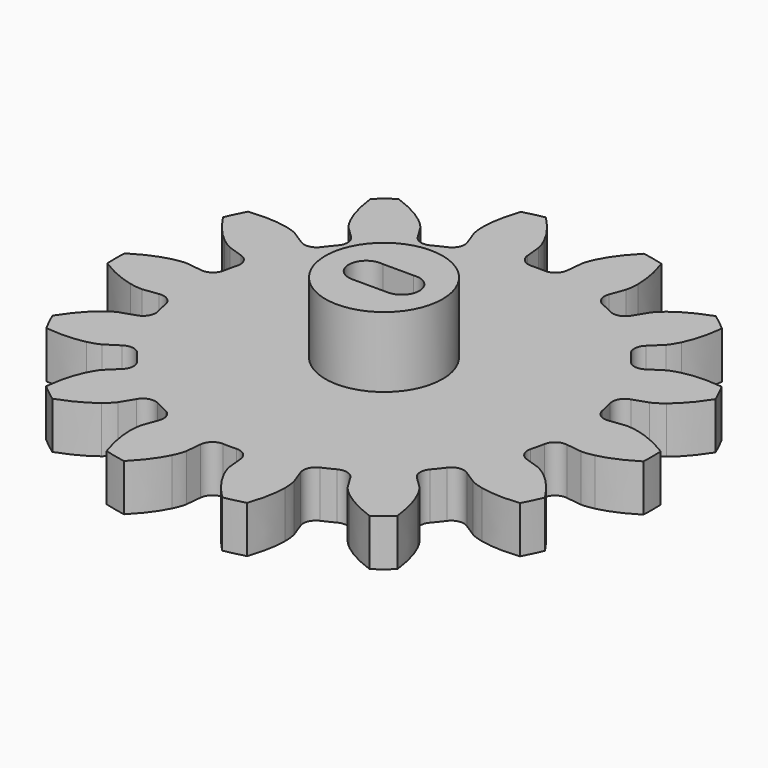
from build123d import *

# Parameters (mm, degrees)
EXTRUDE_DEPTH   = 4
SKETCH_R        = 5
PAD_DEPTH       = 10
SKETCH002_R     = 1.5
POCKET001_DEPTH = 6
SKETCH003_R     = 1.5
POCKET002_DEPTH = 6
SKETCH004_W     = 3.402396
SKETCH004_H     = 2.986549
POCKET_DEPTH    = 6


with BuildPart() as part:
    # InvoluteGear → Extrude (new body)
    with BuildSketch(Plane.XY):
        with BuildLine():
            Line((17.390373, -2.222369), (18.707653, -2.38844))
            add(Edge.make_bspline(
                [(18.707653, -2.38844), (18.829877, -2.395407), (19.197152, -2.399395), (19.812697, -2.261069)],
                knots=[0, 0, 0, 0, 1, 1, 1, 1], degree=3))
            add(Edge.make_bspline(
                [(19.812697, -2.261069), (20.546714, -2.092527), (21.59576, -1.723009), (22.865026, -0.922007)],
                knots=[0, 0, 0, 0, 1, 1, 1, 1], degree=3))
            ThreePointArc((22.865026, -0.922007), (22.881806, 0.000784), (22.861355, 0.923502))
            add(Edge.make_bspline(
                [(22.861355, 0.923502), (21.59576, 1.723009), (20.546714, 2.092527), (19.812697, 2.261069)],
                knots=[0, 0, 0, 0, 1, 1, 1, 1], degree=3))
            add(Edge.make_bspline(
                [(19.812697, 2.261069), (19.197152, 2.399395), (18.829877, 2.395407), (18.707653, 2.38844)],
                knots=[0, 0, 0, 0, 1, 1, 1, 1], degree=3))
            Line((18.707653, 2.38844), (17.390373, 2.222369))
            ThreePointArc((17.390373, 2.222369), (16.595671, 2.405517), (16.152111, 3.089878))
            ThreePointArc((16.152111, 3.089878), (16.03269, 3.659357), (15.893197, 4.224254))
            ThreePointArc((15.893197, 4.224254), (15.995898, 5.033296), (16.632435, 5.543115))
            Line((16.632435, 5.543115), (17.891318, 5.965036))
            add(Edge.make_bspline(
                [(17.891318, 5.965036), (18.004461, 6.011791), (18.337094, 6.167552), (18.831664, 6.559255)],
                knots=[0, 0, 0, 0, 1, 1, 1, 1], degree=3))
            add(Edge.make_bspline(
                [(18.831664, 6.559255), (19.419863, 7.029584), (20.204693, 7.817671), (21.000721, 9.090063)],
                knots=[0, 0, 0, 0, 1, 1, 1, 1], degree=3))
            ThreePointArc((21.000721, 9.090063), (20.615454, 9.92875), (20.196677, 10.751216))
            add(Edge.make_bspline(
                [(20.196677, 10.751216), (18.709521, 10.922427), (17.604037, 10.800187), (16.869582, 10.633559)],
                knots=[0, 0, 0, 0, 1, 1, 1, 1], degree=3))
            add(Edge.make_bspline(
                [(16.869582, 10.633559), (16.254978, 10.491112), (15.925805, 10.328164), (15.818708, 10.268857)],
                knots=[0, 0, 0, 0, 1, 1, 1, 1], degree=3))
            Line((15.818708, 10.268857), (14.703935, 9.547685))
            ThreePointArc((14.703935, 9.547685), (13.908468, 9.367888), (13.211901, 9.792022))
            ThreePointArc((13.211901, 9.792022), (12.857219, 10.25329), (12.48644, 10.701721))
            ThreePointArc((12.48644, 10.701721), (12.227941, 11.475203), (12.580238, 12.210717))
            Line((12.580238, 12.210717), (13.531389, 13.137064))
            add(Edge.make_bspline(
                [(13.531389, 13.137064), (13.613041, 13.228279), (13.84515, 13.512939), (14.120789, 14.080437)],
                knots=[0, 0, 0, 0, 1, 1, 1, 1], degree=3))
            add(Edge.make_bspline(
                [(14.120789, 14.080437), (14.44667, 14.759399), (14.811839, 15.809966), (14.976965, 17.301735)],
                knots=[0, 0, 0, 0, 1, 1, 1, 1], degree=3))
            ThreePointArc((14.976965, 17.301735), (14.265959, 17.890205), (13.531799, 18.449521))
            add(Edge.make_bspline(
                [(13.531799, 18.449521), (12.117633, 17.958524), (11.174663, 17.368737), (10.58524, 16.899943)],
                knots=[0, 0, 0, 0, 1, 1, 1, 1], degree=3))
            add(Edge.make_bspline(
                [(10.58524, 16.899943), (10.093306, 16.504935), (9.867432, 16.215303), (9.796673, 16.1154)],
                knots=[0, 0, 0, 0, 1, 1, 1, 1], degree=3))
            Line((9.796673, 16.1154), (9.105203, 14.981966))
            ThreePointArc((9.105203, 14.981966), (8.466522, 14.474834), (7.654912, 14.554736))
            ThreePointArc((7.654912, 14.554736), (7.135218, 14.816433), (6.606591, 15.059581))
            ThreePointArc((6.606591, 15.059581), (6.03809, 15.644305), (6.036372, 16.459837))
            Line((6.036372, 16.459837), (6.491402, 17.707135))
            add(Edge.make_bspline(
                [(6.491402, 17.707135), (6.525391, 17.824745), (6.611005, 18.181923), (6.613119, 18.812816)],
                knots=[0, 0, 0, 0, 1, 1, 1, 1], degree=3))
            add(Edge.make_bspline(
                [(6.613119, 18.812816), (6.612137, 19.565934), (6.485319, 20.670903), (5.986838, 22.086586)],
                knots=[0, 0, 0, 0, 1, 1, 1, 1], degree=3))
            ThreePointArc((5.986838, 22.086586), (5.090916, 22.308285), (4.186782, 22.493671))
            add(Edge.make_bspline(
                [(4.186782, 22.493671), (3.125699, 21.437715), (2.532011, 20.497196), (2.204361, 19.819086)],
                knots=[0, 0, 0, 0, 1, 1, 1, 1], degree=3))
            add(Edge.make_bspline(
                [(2.204361, 19.819086), (1.932531, 19.249754), (1.854693, 18.890801), (1.834287, 18.770091)],
                knots=[0, 0, 0, 0, 1, 1, 1, 1], degree=3))
            Line((1.834287, 18.770091), (1.703073, 17.448884))
            ThreePointArc((1.703073, 17.448884), (1.347678, 16.714861), (0.581774, 16.434706))
            ThreePointArc((0.581774, 16.434706), (0, 16.445), (-0.581774, 16.434706))
            ThreePointArc((-0.581774, 16.434706), (-1.347678, 16.714861), (-1.703073, 17.448884))
            Line((-1.703073, 17.448884), (-1.834287, 18.770091))
            add(Edge.make_bspline(
                [(-1.834287, 18.770091), (-1.854693, 18.890801), (-1.932531, 19.249754), (-2.204361, 19.819086)],
                knots=[0, 0, 0, 0, 1, 1, 1, 1], degree=3))
            add(Edge.make_bspline(
                [(-2.204361, 19.819086), (-2.532011, 20.497196), (-3.125699, 21.437715), (-4.189056, 22.496918)],
                knots=[0, 0, 0, 0, 1, 1, 1, 1], degree=3))
            ThreePointArc((-4.189056, 22.496918), (-5.092445, 22.307936), (-5.987478, 22.082674))
            add(Edge.make_bspline(
                [(-5.987478, 22.082674), (-6.485319, 20.670903), (-6.612137, 19.565934), (-6.613119, 18.812816)],
                knots=[0, 0, 0, 0, 1, 1, 1, 1], degree=3))
            add(Edge.make_bspline(
                [(-6.613119, 18.812816), (-6.611005, 18.181923), (-6.525391, 17.824745), (-6.491402, 17.707135)],
                knots=[0, 0, 0, 0, 1, 1, 1, 1], degree=3))
            Line((-6.491402, 17.707135), (-6.036372, 16.459837))
            ThreePointArc((-6.036372, 16.459837), (-6.03809, 15.644305), (-6.606591, 15.059581))
            ThreePointArc((-6.606591, 15.059581), (-7.135218, 14.816433), (-7.654912, 14.554736))
            ThreePointArc((-7.654912, 14.554736), (-8.466522, 14.474834), (-9.105203, 14.981966))
            Line((-9.105203, 14.981966), (-9.796673, 16.1154))
            add(Edge.make_bspline(
                [(-9.796673, 16.1154), (-9.867432, 16.215303), (-10.093306, 16.504935), (-10.58524, 16.899943)],
                knots=[0, 0, 0, 0, 1, 1, 1, 1], degree=3))
            add(Edge.make_bspline(
                [(-10.58524, 16.899943), (-11.174663, 17.368737), (-12.117633, 17.958524), (-13.535256, 18.451459)],
                knots=[0, 0, 0, 0, 1, 1, 1, 1], degree=3))
            ThreePointArc((-13.535256, 18.451459), (-14.267186, 17.889227), (-14.975844, 17.297933))
            add(Edge.make_bspline(
                [(-14.975844, 17.297933), (-14.811839, 15.809966), (-14.44667, 14.759399), (-14.120789, 14.080437)],
                knots=[0, 0, 0, 0, 1, 1, 1, 1], degree=3))
            add(Edge.make_bspline(
                [(-14.120789, 14.080437), (-13.84515, 13.512939), (-13.613041, 13.228279), (-13.531389, 13.137064)],
                knots=[0, 0, 0, 0, 1, 1, 1, 1], degree=3))
            Line((-13.531389, 13.137064), (-12.580238, 12.210717))
            ThreePointArc((-12.580238, 12.210717), (-12.227941, 11.475203), (-12.48644, 10.701721))
            ThreePointArc((-12.48644, 10.701721), (-12.857219, 10.25329), (-13.211901, 9.792022))
            ThreePointArc((-13.211901, 9.792022), (-13.908468, 9.367888), (-14.703935, 9.547685))
            Line((-14.703935, 9.547685), (-15.818708, 10.268857))
            add(Edge.make_bspline(
                [(-15.818708, 10.268857), (-15.925805, 10.328164), (-16.254978, 10.491112), (-16.869582, 10.633559)],
                knots=[0, 0, 0, 0, 1, 1, 1, 1], degree=3))
            add(Edge.make_bspline(
                [(-16.869582, 10.633559), (-17.604037, 10.800187), (-18.709521, 10.922427), (-20.200633, 10.751463)],
                knots=[0, 0, 0, 0, 1, 1, 1, 1], degree=3))
            ThreePointArc((-20.200633, 10.751463), (-20.616135, 9.927337), (-20.998061, 9.087124))
            add(Edge.make_bspline(
                [(-20.998061, 9.087124), (-20.204693, 7.817671), (-19.419863, 7.029584), (-18.831664, 6.559255)],
                knots=[0, 0, 0, 0, 1, 1, 1, 1], degree=3))
            add(Edge.make_bspline(
                [(-18.831664, 6.559255), (-18.337094, 6.167552), (-18.004461, 6.011791), (-17.891318, 5.965036)],
                knots=[0, 0, 0, 0, 1, 1, 1, 1], degree=3))
            Line((-17.891318, 5.965036), (-16.632435, 5.543115))
            ThreePointArc((-16.632435, 5.543115), (-15.995898, 5.033296), (-15.893197, 4.224254))
            ThreePointArc((-15.893197, 4.224254), (-16.03269, 3.659357), (-16.152111, 3.089878))
            ThreePointArc((-16.152111, 3.089878), (-16.595671, 2.405517), (-17.390373, 2.222369))
            Line((-17.390373, 2.222369), (-18.707653, 2.38844))
            add(Edge.make_bspline(
                [(-18.707653, 2.38844), (-18.829877, 2.395407), (-19.197152, 2.399395), (-19.812697, 2.261069)],
                knots=[0, 0, 0, 0, 1, 1, 1, 1], degree=3))
            add(Edge.make_bspline(
                [(-19.812697, 2.261069), (-20.546714, 2.092527), (-21.59576, 1.723009), (-22.865026, 0.922007)],
                knots=[0, 0, 0, 0, 1, 1, 1, 1], degree=3))
            ThreePointArc((-22.865026, 0.922007), (-22.881806, -0.000784), (-22.861355, -0.923502))
            add(Edge.make_bspline(
                [(-22.861355, -0.923502), (-21.59576, -1.723009), (-20.546714, -2.092527), (-19.812697, -2.261069)],
                knots=[0, 0, 0, 0, 1, 1, 1, 1], degree=3))
            add(Edge.make_bspline(
                [(-19.812697, -2.261069), (-19.197152, -2.399395), (-18.829877, -2.395407), (-18.707653, -2.38844)],
                knots=[0, 0, 0, 0, 1, 1, 1, 1], degree=3))
            Line((-18.707653, -2.38844), (-17.390373, -2.222369))
            ThreePointArc((-17.390373, -2.222369), (-16.595671, -2.405517), (-16.152111, -3.089878))
            ThreePointArc((-16.152111, -3.089878), (-16.03269, -3.659357), (-15.893197, -4.224254))
            ThreePointArc((-15.893197, -4.224254), (-15.995898, -5.033296), (-16.632435, -5.543115))
            Line((-16.632435, -5.543115), (-17.891318, -5.965036))
            add(Edge.make_bspline(
                [(-17.891318, -5.965036), (-18.004461, -6.011791), (-18.337094, -6.167552), (-18.831664, -6.559255)],
                knots=[0, 0, 0, 0, 1, 1, 1, 1], degree=3))
            add(Edge.make_bspline(
                [(-18.831664, -6.559255), (-19.419863, -7.029584), (-20.204693, -7.817671), (-21.000721, -9.090063)],
                knots=[0, 0, 0, 0, 1, 1, 1, 1], degree=3))
            ThreePointArc((-21.000721, -9.090063), (-20.615454, -9.92875), (-20.196677, -10.751216))
            add(Edge.make_bspline(
                [(-20.196677, -10.751216), (-18.709521, -10.922427), (-17.604037, -10.800187), (-16.869582, -10.633559)],
                knots=[0, 0, 0, 0, 1, 1, 1, 1], degree=3))
            add(Edge.make_bspline(
                [(-16.869582, -10.633559), (-16.254978, -10.491112), (-15.925805, -10.328164), (-15.818708, -10.268857)],
                knots=[0, 0, 0, 0, 1, 1, 1, 1], degree=3))
            Line((-15.818708, -10.268857), (-14.703935, -9.547685))
            ThreePointArc((-14.703935, -9.547685), (-13.908468, -9.367888), (-13.211901, -9.792022))
            ThreePointArc((-13.211901, -9.792022), (-12.857219, -10.25329), (-12.48644, -10.701721))
            ThreePointArc((-12.48644, -10.701721), (-12.227941, -11.475203), (-12.580238, -12.210717))
            Line((-12.580238, -12.210717), (-13.531389, -13.137064))
            add(Edge.make_bspline(
                [(-13.531389, -13.137064), (-13.613041, -13.228279), (-13.84515, -13.512939), (-14.120789, -14.080437)],
                knots=[0, 0, 0, 0, 1, 1, 1, 1], degree=3))
            add(Edge.make_bspline(
                [(-14.120789, -14.080437), (-14.44667, -14.759399), (-14.811839, -15.809966), (-14.976965, -17.301735)],
                knots=[0, 0, 0, 0, 1, 1, 1, 1], degree=3))
            ThreePointArc((-14.976965, -17.301735), (-14.265959, -17.890205), (-13.531799, -18.449521))
            add(Edge.make_bspline(
                [(-13.531799, -18.449521), (-12.117633, -17.958524), (-11.174663, -17.368737), (-10.58524, -16.899943)],
                knots=[0, 0, 0, 0, 1, 1, 1, 1], degree=3))
            add(Edge.make_bspline(
                [(-10.58524, -16.899943), (-10.093306, -16.504935), (-9.867432, -16.215303), (-9.796673, -16.1154)],
                knots=[0, 0, 0, 0, 1, 1, 1, 1], degree=3))
            Line((-9.796673, -16.1154), (-9.105203, -14.981966))
            ThreePointArc((-9.105203, -14.981966), (-8.466522, -14.474834), (-7.654912, -14.554736))
            ThreePointArc((-7.654912, -14.554736), (-7.135218, -14.816433), (-6.606591, -15.059581))
            ThreePointArc((-6.606591, -15.059581), (-6.03809, -15.644305), (-6.036372, -16.459837))
            Line((-6.036372, -16.459837), (-6.491402, -17.707135))
            add(Edge.make_bspline(
                [(-6.491402, -17.707135), (-6.525391, -17.824745), (-6.611005, -18.181923), (-6.613119, -18.812816)],
                knots=[0, 0, 0, 0, 1, 1, 1, 1], degree=3))
            add(Edge.make_bspline(
                [(-6.613119, -18.812816), (-6.612137, -19.565934), (-6.485319, -20.670903), (-5.986838, -22.086586)],
                knots=[0, 0, 0, 0, 1, 1, 1, 1], degree=3))
            ThreePointArc((-5.986838, -22.086586), (-5.090916, -22.308285), (-4.186782, -22.493671))
            add(Edge.make_bspline(
                [(-4.186782, -22.493671), (-3.125699, -21.437715), (-2.532011, -20.497196), (-2.204361, -19.819086)],
                knots=[0, 0, 0, 0, 1, 1, 1, 1], degree=3))
            add(Edge.make_bspline(
                [(-2.204361, -19.819086), (-1.932531, -19.249754), (-1.854693, -18.890801), (-1.834287, -18.770091)],
                knots=[0, 0, 0, 0, 1, 1, 1, 1], degree=3))
            Line((-1.834287, -18.770091), (-1.703073, -17.448884))
            ThreePointArc((-1.703073, -17.448884), (-1.347678, -16.714861), (-0.581774, -16.434706))
            ThreePointArc((-0.581774, -16.434706), (0, -16.445), (0.581774, -16.434706))
            ThreePointArc((0.581774, -16.434706), (1.347678, -16.714861), (1.703073, -17.448884))
            Line((1.703073, -17.448884), (1.834287, -18.770091))
            add(Edge.make_bspline(
                [(1.834287, -18.770091), (1.854693, -18.890801), (1.932531, -19.249754), (2.204361, -19.819086)],
                knots=[0, 0, 0, 0, 1, 1, 1, 1], degree=3))
            add(Edge.make_bspline(
                [(2.204361, -19.819086), (2.532011, -20.497196), (3.125699, -21.437715), (4.189056, -22.496918)],
                knots=[0, 0, 0, 0, 1, 1, 1, 1], degree=3))
            ThreePointArc((4.189056, -22.496918), (5.092445, -22.307936), (5.987478, -22.082674))
            add(Edge.make_bspline(
                [(5.987478, -22.082674), (6.485319, -20.670903), (6.612137, -19.565934), (6.613119, -18.812816)],
                knots=[0, 0, 0, 0, 1, 1, 1, 1], degree=3))
            add(Edge.make_bspline(
                [(6.613119, -18.812816), (6.611005, -18.181923), (6.525391, -17.824745), (6.491402, -17.707135)],
                knots=[0, 0, 0, 0, 1, 1, 1, 1], degree=3))
            Line((6.491402, -17.707135), (6.036372, -16.459837))
            ThreePointArc((6.036372, -16.459837), (6.03809, -15.644305), (6.606591, -15.059581))
            ThreePointArc((6.606591, -15.059581), (7.135218, -14.816433), (7.654912, -14.554736))
            ThreePointArc((7.654912, -14.554736), (8.466522, -14.474834), (9.105203, -14.981966))
            Line((9.105203, -14.981966), (9.796673, -16.1154))
            add(Edge.make_bspline(
                [(9.796673, -16.1154), (9.867432, -16.215303), (10.093306, -16.504935), (10.58524, -16.899943)],
                knots=[0, 0, 0, 0, 1, 1, 1, 1], degree=3))
            add(Edge.make_bspline(
                [(10.58524, -16.899943), (11.174663, -17.368737), (12.117633, -17.958524), (13.535256, -18.451459)],
                knots=[0, 0, 0, 0, 1, 1, 1, 1], degree=3))
            ThreePointArc((13.535256, -18.451459), (14.267186, -17.889227), (14.975844, -17.297933))
            add(Edge.make_bspline(
                [(14.975844, -17.297933), (14.811839, -15.809966), (14.44667, -14.759399), (14.120789, -14.080437)],
                knots=[0, 0, 0, 0, 1, 1, 1, 1], degree=3))
            add(Edge.make_bspline(
                [(14.120789, -14.080437), (13.84515, -13.512939), (13.613041, -13.228279), (13.531389, -13.137064)],
                knots=[0, 0, 0, 0, 1, 1, 1, 1], degree=3))
            Line((13.531389, -13.137064), (12.580238, -12.210717))
            ThreePointArc((12.580238, -12.210717), (12.227941, -11.475203), (12.48644, -10.701721))
            ThreePointArc((12.48644, -10.701721), (12.857219, -10.25329), (13.211901, -9.792022))
            ThreePointArc((13.211901, -9.792022), (13.908468, -9.367888), (14.703935, -9.547685))
            Line((14.703935, -9.547685), (15.818708, -10.268857))
            add(Edge.make_bspline(
                [(15.818708, -10.268857), (15.925805, -10.328164), (16.254978, -10.491112), (16.869582, -10.633559)],
                knots=[0, 0, 0, 0, 1, 1, 1, 1], degree=3))
            add(Edge.make_bspline(
                [(16.869582, -10.633559), (17.604037, -10.800187), (18.709521, -10.922427), (20.200633, -10.751463)],
                knots=[0, 0, 0, 0, 1, 1, 1, 1], degree=3))
            ThreePointArc((20.200633, -10.751463), (20.616135, -9.927337), (20.998061, -9.087124))
            add(Edge.make_bspline(
                [(20.998061, -9.087124), (20.204693, -7.817671), (19.419863, -7.029584), (18.831664, -6.559255)],
                knots=[0, 0, 0, 0, 1, 1, 1, 1], degree=3))
            add(Edge.make_bspline(
                [(18.831664, -6.559255), (18.337094, -6.167552), (18.004461, -6.011791), (17.891318, -5.965036)],
                knots=[0, 0, 0, 0, 1, 1, 1, 1], degree=3))
            Line((17.891318, -5.965036), (16.632435, -5.543115))
            ThreePointArc((16.632435, -5.543115), (15.995898, -5.033296), (15.893197, -4.224254))
            ThreePointArc((15.893197, -4.224254), (16.03269, -3.659357), (16.152111, -3.089878))
            ThreePointArc((16.152111, -3.089878), (16.595671, -2.405517), (17.390373, -2.222369))
        make_face()
    extrude(amount=EXTRUDE_DEPTH)

    # Sketch → Pad (new body)
    with BuildSketch(Plane.XY):
        Circle(SKETCH_R)
    extrude(amount=PAD_DEPTH)

    # Sketch002 → Pocket001 (cut)
    with BuildSketch(Plane.XY.offset(10)):
        with Locations((1.547215, -0.031931)):
            Circle(SKETCH002_R)
    extrude(amount=-POCKET001_DEPTH, mode=Mode.SUBTRACT)

    # Sketch003 (on Face145 of Pocket001) → Pocket002 (cut)
    with BuildSketch(Plane.XY.offset(10)):
        with Locations((-1.498037, -0.024624)):
            Circle(SKETCH003_R)
    extrude(amount=-POCKET002_DEPTH, mode=Mode.SUBTRACT)

    # Sketch004 (on Face145 of Pocket002) → Pocket (cut)
    with BuildSketch(Plane.XY.offset(10)):
        with Locations((0.013893, -0.035932)):
            Rectangle(SKETCH004_W, SKETCH004_H)
    extrude(amount=-POCKET_DEPTH, mode=Mode.SUBTRACT)


solid = part.part
